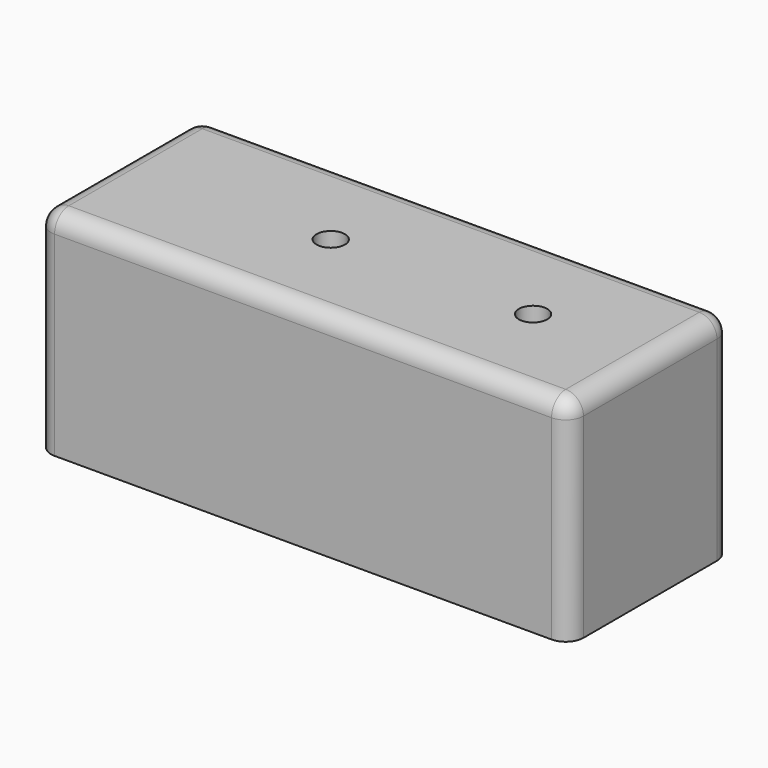
from build123d import *

# Parameters (mm, degrees)
F0_W     = 150
F0_H     = 57
F0_R     = 4
F1_DEPTH = 60
F2_R     = 5


with BuildPart() as f1:
    # F0 (on Top) → F1 (new body)
    with BuildSketch(Plane.XY):
        with Locations((75, 28.5)):
            Rectangle(F0_W, F0_H)
        with Locations((60, 28.5)):
            Circle(F0_R, mode=Mode.SUBTRACT)
        with Locations((117, 28.5)):
            Circle(F0_R, mode=Mode.SUBTRACT)
    extrude(amount=F1_DEPTH)

    # F2
    f2_edges = [f1.edges().sort_by_distance(p)[0] for p in [
        (75, 0, 60),
        (150, 0, 30),
        (150, 28.5, 60),
        (150, 57, 30),
        (75, 57, 60),
        (0, 57, 30),
        (0, 28.5, 60),
        (0, 0, 30),
    ]]
    fillet(f2_edges, radius=F2_R)


solid = f1.part
